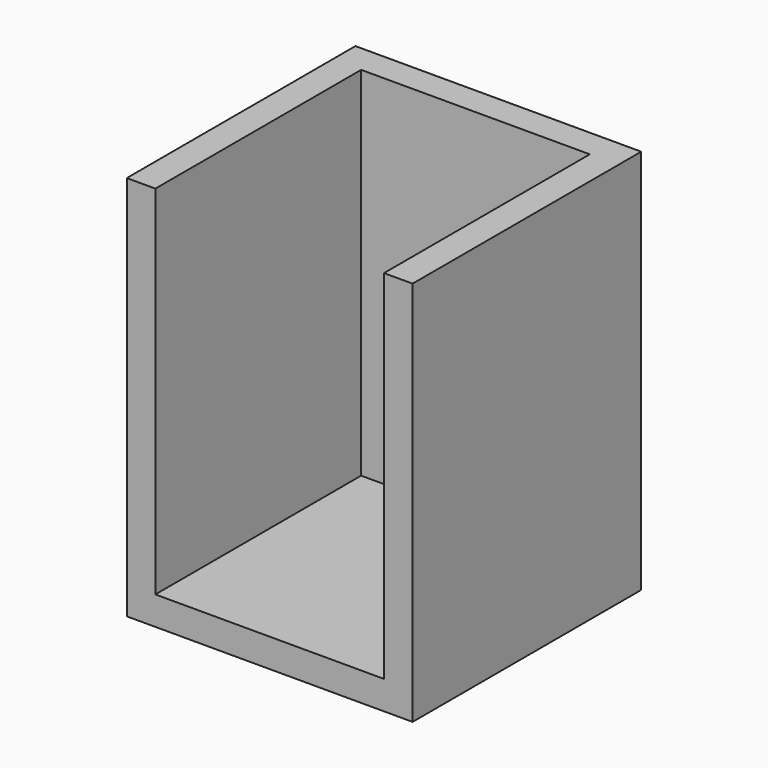
from build123d import *

# Parameters (mm, degrees)
F1_DEPTH = 25
F0_W     = 16
F0_H     = 18
F2_DEPTH = 2


with BuildPart() as f1:
    # F0 (on Top) → F1 (new body)
    with BuildSketch(Plane.XY):
        Polygon((10, 10), (-10, 10), (-10, -10), (-8, -10), (-8, 8), (8, 8), (8, -10), (10, -10), align=None)
    extrude(amount=F1_DEPTH)

    # F0 (on Top) → F2 (join)
    with BuildSketch(Plane.XY):
        Polygon((10, 10), (-10, 10), (-10, -10), (-8, -10), (-8, 8), (8, 8), (8, -10), (10, -10), align=None)
        with Locations((0, -1)):
            Rectangle(F0_W, F0_H)
    extrude(amount=-F2_DEPTH)


solid = f1.part
